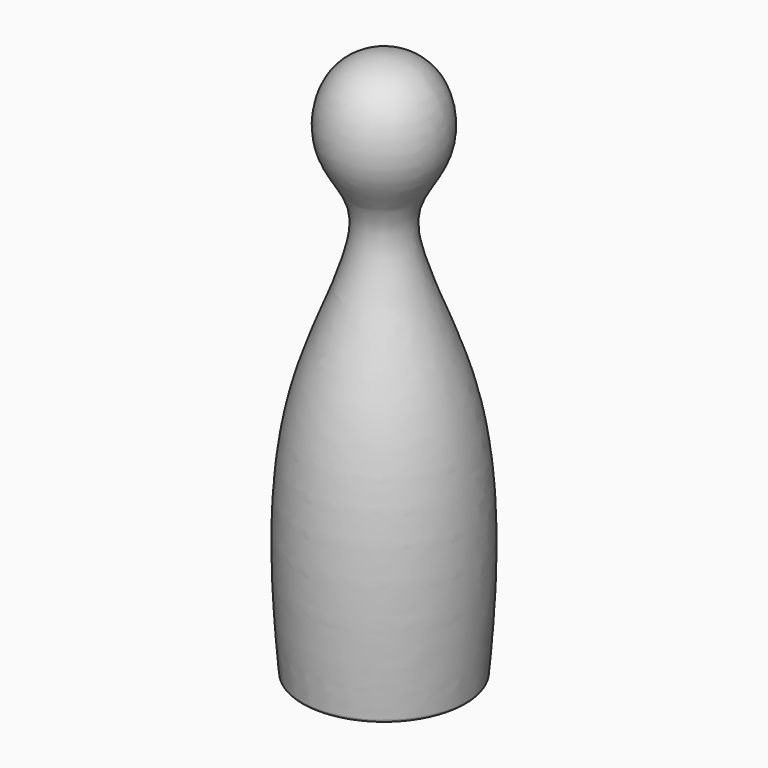
from build123d import *

# Parameters (mm, degrees)
F2_R     = 12
F3_DEPTH = 2
F4_R     = 0.5


with BuildPart() as f1:
    # F0 (on Front) → F1 (revolve)
    with BuildSketch(Plane.XZ):
        with BuildLine():
            add(Edge.make_bspline(
                [(0, 48.4267899261), (8.8372823863, 48.345726062), (13.2532873128, 32.7680933043), (0.1972277692, 23.0980713052), (17.7071610435, -6.3541880505), (16.3976568985, -35.7643305687), (15, -51.5732100739)],
                knots=[0, 0, 0, 0, 0.2084613064, 0.3869544954, 0.6570728673, 1, 1, 1, 1], degree=3))
            Line((0, 48.4267899261), (0, -51.5732100739))
            Line((0, -51.5732100739), (15, -51.5732100739))
        make_face()
    revolve(axis=Axis((0, 0, -1.5732100739), (0, 0, -1)))

    # F2 (on face) → F3 (cut)
    with BuildSketch(Plane(origin=(0, 0, -51.5732100739), x_dir=(1, 0, 0), z_dir=(0, 0, -1))):
        Circle(F2_R)
    extrude(amount=-F3_DEPTH, mode=Mode.SUBTRACT)

    # F4
    f4_edges = [f1.edges().sort_by_distance(p)[0] for p in [
        (-12, 0, -51.57321),
        (-15, 0, -51.57321),
        (-12, 0, -49.57321),
    ]]
    fillet(f4_edges, radius=F4_R)


solid = f1.part
